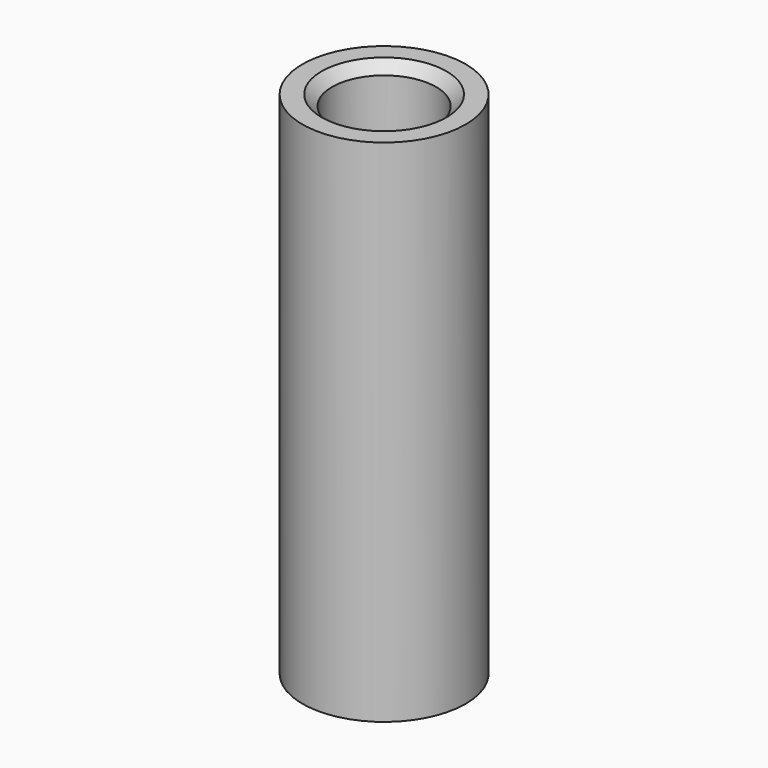
from build123d import *

# Parameters (mm, degrees)
F3_R           = 4
F4_DEPTH       = 25
F6_D           = 5.1
F6_DEPTH       = 6.4
F6_CSINK_D     = 6.12
F6_CSINK_ANGLE = 90
F6_TIP         = 1.5321945785
F7_D           = 5.1
F7_DEPTH       = 6.4
F7_CSINK_D     = 6.12
F7_CSINK_ANGLE = 90
F7_TIP         = 1.5321945785


with BuildPart() as f4:
    # F3 (on Top) → F4 (new body)
    with BuildSketch(Plane.XY):
        Circle(F3_R)
    extrude(amount=F4_DEPTH)

    # F6
    with Locations(Plane.XY.offset(25)):
        with Locations((0, 0)):
            CounterSinkHole(F6_D / 2, F6_CSINK_D / 2, depth=F6_DEPTH, counter_sink_angle=F6_CSINK_ANGLE)
            with Locations((0, 0, -(F6_DEPTH + F6_TIP / 2))):  # 118° drill point
                Cone(0, F6_D / 2, F6_TIP, mode=Mode.SUBTRACT)

    # F7
    with Locations(Plane(origin=(0, 0, 0), x_dir=(1, 0, 0), z_dir=(0, 0, -1))):
        with Locations((0, 0)):
            CounterSinkHole(F7_D / 2, F7_CSINK_D / 2, depth=F7_DEPTH, counter_sink_angle=F7_CSINK_ANGLE)
            with Locations((0, 0, -(F7_DEPTH + F7_TIP / 2))):  # 118° drill point
                Cone(0, F7_D / 2, F7_TIP, mode=Mode.SUBTRACT)


solid = f4.part
